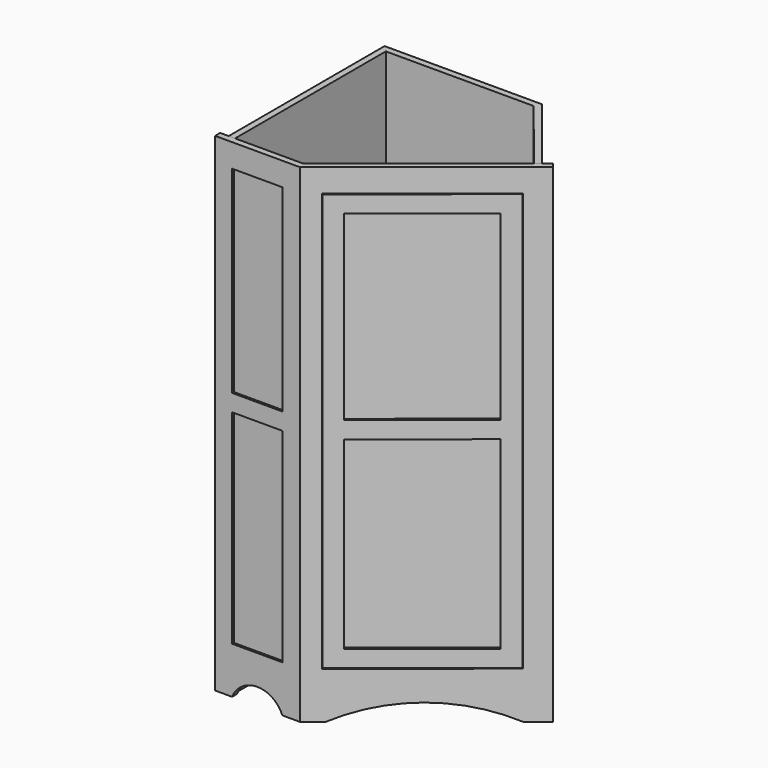
from build123d import *

# Parameters (mm, degrees)
F0_W      = 19.05
F0_H      = 563.6087166513
F1_DEPTH  = 1460.5
F2_DEPTH  = 1460.5
F3_W      = 150.2883361875
F3_H      = 590.55
F3_H_2    = 609.6
F4_DEPTH  = 6.35
F5_DEPTH  = 19.05
F6_W      = 469.9
F6_H      = 1250.95
F7_DEPTH  = 25.4
F8_W      = 466.725
F8_H      = 1247.775
F8_W_2    = 365.125
F8_H_2    = 50.8
F8_H_3    = 543.5021896
F8_H_4    = 551.8728104
F9_DEPTH  = 19.05
F10_DEPTH = 6.35
F11_DEPTH = 25.4


with BuildPart() as f1:
    # F0 (on Top) → F1 (new body)
    with BuildSketch(Plane.XY):
        with Locations((34.925, -326.2543583256)):
            Rectangle(F0_W, F0_H)
        Polygon((25.4, -44.45), (44.45, -44.45), (486.6740819534, -44.45), (495.8137611162, -25.4), (25.4, -25.4), align=None)
        Polygon((486.6740819534, -44.45), (668.0388310507, -270.5137659268), (682.8978955973, -258.5927466416), (495.8137611162, -25.4), align=None)
    extrude(amount=F1_DEPTH)


with BuildPart() as f2:
    # F0 (on Top) → F2 (new body)
    with BuildSketch(Plane.XY):
        Polygon((0, -608.0587166513), (0, -627.1087166513), (254, -627.1087166513), (247.3028109026, -608.0587166513), (44.45, -608.0587166513), (25.4, -608.0587166513), (19.05, -608.0587166513), align=None)
        Polygon((247.3028109026, -608.0587166513), (254, -627.1087166513), (714.6310009447, -257.5571188078), (702.7099816595, -242.6980542612), (687.8509171129, -254.6190735465), (682.8978955973, -258.5927466416), (668.0388310507, -270.5137659268), align=None)
    extrude(amount=F2_DEPTH)

    # F3 (on face) → F4 (cut)
    with BuildSketch(Plane.XZ.offset(627.1087166513)):
        with Locations((125.9441680937, 1095.375)):
            Rectangle(F3_W, F3_H)
        with Locations((125.9441680937, 444.5)):
            Rectangle(F3_W, F3_H_2)
    extrude(amount=-F4_DEPTH, mode=Mode.SUBTRACT)

    # F3 (on face) → F5 (cut, through all)
    with BuildSketch(Plane.XZ.offset(627.1087166513)):
        with BuildLine():
            ThreePointArc((201.0883361875, 0), (125.9441680937, 50.8), (50.8, 0))
            Line((50.8, 0), (201.0883361875, 0))
        make_face()
    extrude(amount=-F5_DEPTH, mode=Mode.SUBTRACT)

    # F6 (on face) → F7 (cut)
    with BuildSketch(Plane(origin=(405.5611158002, -505.5153970527, 0), x_dir=(0.7800033883, 0.6257752906, 0), z_dir=(0.6257752906, -0.7800033883, 0))):
        with Locations((91.4417212428, 765.175)):
            Rectangle(F6_W, F6_H)
    extrude(amount=-F7_DEPTH, mode=Mode.SUBTRACT)

    # F6 (on face) → F11 (cut)
    with BuildSketch(Plane(origin=(405.5611158002, -505.5153970527, 0), x_dir=(0.7800033883, 0.6257752906, 0), z_dir=(0.6257752906, -0.7800033883, 0))):
        with BuildLine():
            ThreePointArc((326.3917212428, 0), (95.7947475759, 50.8), (-134.802226091, 0))
            Line((-134.802226091, 0), (326.3917212428, 0))
        make_face()
    extrude(amount=-F11_DEPTH, mode=Mode.SUBTRACT)


with BuildPart() as f9:
    # F8 (on face) → F9 (new body)
    with BuildSketch(Plane(origin=(405.5611158002, -505.5153970527, 0), x_dir=(0.7800033883, 0.6257752906, 0), z_dir=(0.6257752906, -0.7800033883, 0))):
        with Locations((91.4417212428, 765.175)):
            Rectangle(F8_W, F8_H)
        Polygon((-91.1207787572, 794.7603104), (-91.1207787572, 1338.2625), (274.0042212428, 1338.2625), (274.0042212428, 794.7603104), (274.0042212428, 743.9603104), (274.0042212428, 192.0875), (-91.1207787572, 192.0875), (-91.1207787572, 743.9603104), align=None, mode=Mode.SUBTRACT)
        with Locations((91.4417212428, 769.3603104)):
            Rectangle(F8_W_2, F8_H_2)
        with Locations((91.4417212428, 1066.5114052)):
            Rectangle(F8_W_2, F8_H_3)
        with Locations((91.4417212428, 468.0239052)):
            Rectangle(F8_W_2, F8_H_4)
    extrude(amount=-F9_DEPTH)

    # F8 (on face) → F10 (cut)
    with BuildSketch(Plane(origin=(405.5611158002, -505.5153970527, 0), x_dir=(0.7800033883, 0.6257752906, 0), z_dir=(0.6257752906, -0.7800033883, 0))):
        with Locations((91.4417212428, 1066.5114052)):
            Rectangle(F8_W_2, F8_H_3)
        with Locations((91.4417212428, 468.0239052)):
            Rectangle(F8_W_2, F8_H_4)
    extrude(amount=-F10_DEPTH, mode=Mode.SUBTRACT)


solid = Compound([f1.part, f2.part, f9.part])
